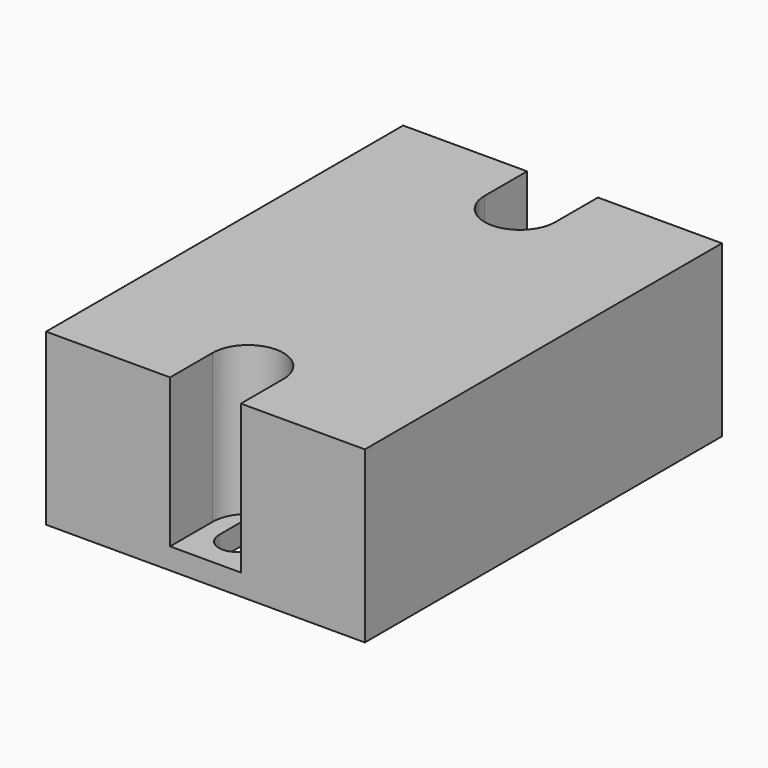
from build123d import *

# Parameters (mm, degrees)
F0_W     = 45
F0_H     = 63
F1_DEPTH = 24
F3_DEPTH = 21
F4_R     = 2.5
F5_DEPTH = 3


with BuildPart() as f1:
    # F0 (on Top) → F1 (new body)
    with BuildSketch(Plane.XY):
        Rectangle(F0_W, F0_H)
    extrude(amount=F1_DEPTH)

    # F2 (on face) → F3 (cut)
    with BuildSketch(Plane.XY.offset(24)):
        with BuildLine():
            Line((5, 31.5), (-5, 31.5))
            Line((-5, 31.5), (-5, 24))
            ThreePointArc((-5, 24), (0, 19), (5, 24))
            Line((5, 24), (5, 31.5))
        make_face()
        with BuildLine():
            Line((-5, -24), (-5, -31.5))
            Line((-5, -31.5), (5, -31.5))
            Line((5, -31.5), (5, -24))
            ThreePointArc((5, -24), (0, -19), (-5, -24))
        make_face()
    extrude(amount=-F3_DEPTH, mode=Mode.SUBTRACT)

    # F4 (on face) → F5 (cut, through all)
    with BuildSketch(Plane.XY.offset(3)):
        with Locations((0, 24)):
            Circle(F4_R)
        with BuildLine():
            Line((2.5, -26), (2.5, -22))
            ThreePointArc((2.5, -22), (0, -19.5), (-2.5, -22))
            Line((-2.5, -22), (-2.5, -26))
            ThreePointArc((-2.5, -26), (0, -28.5), (2.5, -26))
        make_face()
    extrude(amount=-F5_DEPTH, mode=Mode.SUBTRACT)


solid = f1.part
